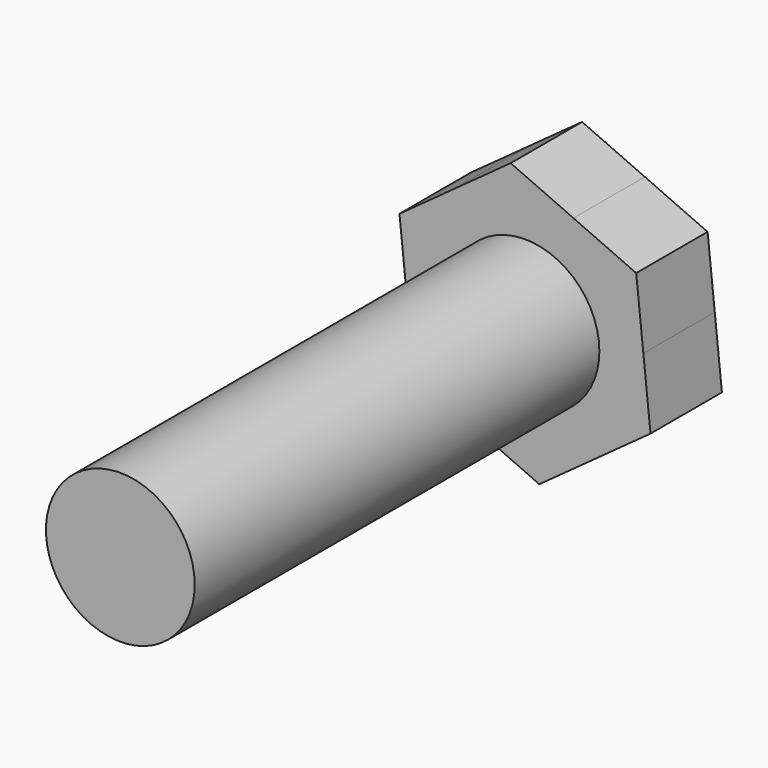
from build123d import *

# Parameters (mm, degrees)
F0_R     = 3.96875
F1_DEPTH = 31.75
F3_DEPTH = 4.7625


with BuildPart() as f1:
    # F0 (on Front) → F1 (new body)
    with BuildSketch(Plane.XZ):
        Circle(F0_R)
    extrude(amount=F1_DEPTH)

    # F2 (on Front) → F3 (join)
    with BuildSketch(Plane.XZ):
        with BuildLine():
            Line((-5.9335317833, -4.3077295539), (-2.5848472762, -5.8000917716))
            ThreePointArc((-2.5848472762, -5.8000917716), (-5.1385892707, -3.7306032096), (-6.315450449, -0.6615025515))
            Line((-6.315450449, -0.6615025515), (-5.9335317833, -4.3077295539))
        make_face()
        with BuildLine():
            ThreePointArc((-6.315450449, -0.6615025515), (-5.8000918049, 2.5848472015), (-3.7306032544, 5.1385892381))
            Line((-3.7306032544, 5.1385892381), (-6.697369118, 2.9847244815))
            Line((-6.697369118, 2.9847244815), (-6.315450449, -0.6615025515))
        make_face()
        with BuildLine():
            Line((0.7638373347, -7.2924540355), (3.7306031675, -5.1385893012))
            ThreePointArc((3.7306031675, -5.1385893012), (0.6615024718, -6.3154504574), (-2.5848472762, -5.8000917716))
            Line((-2.5848472762, -5.8000917716), (0.7638373347, -7.2924540355))
        make_face()
        with BuildLine():
            ThreePointArc((6.315450451, 0.6615025328), (6.3413567304, 0.3312020804), (6.35, 0))
            ThreePointArc((6.35, 0), (5.6573770474, -2.8838489807), (3.7306031675, -5.1385893012))
            Line((3.7306031675, -5.1385893012), (6.697369118, -2.9847244815))
            Line((6.697369118, -2.9847244815), (6.315450451, 0.6615025328))
        make_face()
        with BuildLine():
            ThreePointArc((2.5848472063, 5.8000918027), (5.1385892537, 3.7306032329), (6.315450451, 0.6615025328))
            Line((6.315450451, 0.6615025328), (5.9335317833, 4.3077295539))
            Line((5.9335317833, 4.3077295539), (2.5848472063, 5.8000918027))
        make_face()
        with BuildLine():
            ThreePointArc((-3.7306032544, 5.1385892381), (-0.6615025632, 6.3154504478), (2.5848472063, 5.8000918027))
            Line((2.5848472063, 5.8000918027), (-0.7638373347, 7.2924540355))
            Line((-0.7638373347, 7.2924540355), (-3.7306032544, 5.1385892381))
        make_face()
        with BuildLine():
            ThreePointArc((3.7306031675, -5.1385893012), (5.6573770474, -2.8838489807), (6.35, 0))
            ThreePointArc((6.35, 0), (6.3413567304, 0.3312020804), (6.315450451, 0.6615025328))
            ThreePointArc((6.315450451, 0.6615025328), (5.1385892537, 3.7306032329), (2.5848472063, 5.8000918027))
            ThreePointArc((2.5848472063, 5.8000918027), (-0.6615025632, 6.3154504478), (-3.7306032544, 5.1385892381))
            ThreePointArc((-3.7306032544, 5.1385892381), (-5.8000918049, 2.5848472015), (-6.315450449, -0.6615025515))
            ThreePointArc((-6.315450449, -0.6615025515), (-5.1385892707, -3.7306032096), (-2.5848472762, -5.8000917716))
            ThreePointArc((-2.5848472762, -5.8000917716), (0.6615024718, -6.3154504574), (3.7306031675, -5.1385893012))
        make_face()
    extrude(amount=F3_DEPTH)


solid = f1.part
